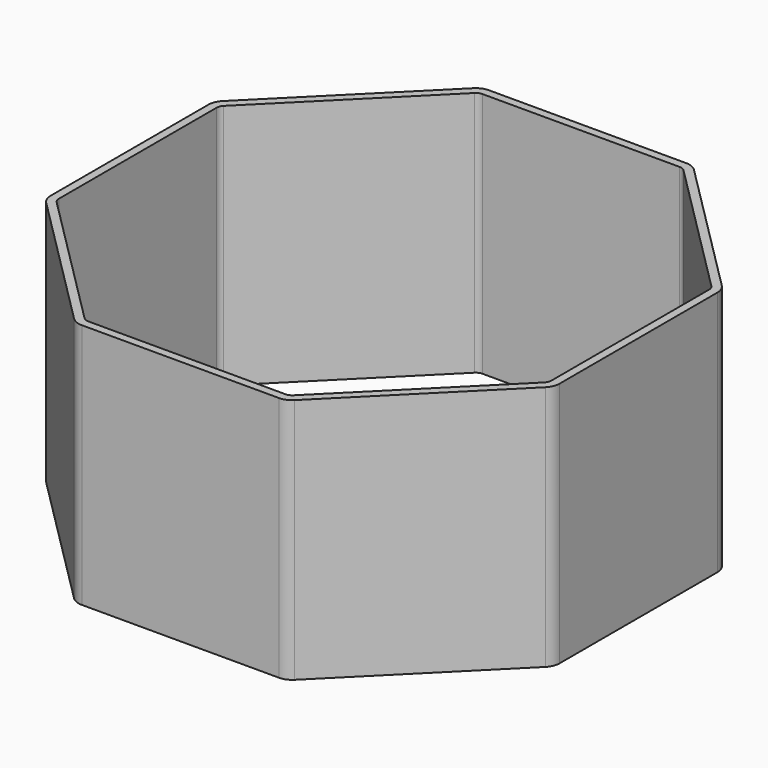
from build123d import *

# Parameters (mm, degrees)
F1_DEPTH = 90
F2_R     = 3
F3_R     = 6


with BuildPart() as f1:
    # F0 (on Top) → F1 (new body)
    with BuildSketch(Plane.XY):
        Polygon((93, 38.521861), (38.521861, 93), (-38.521861, 93), (-93, 38.521861), (-93, -38.521861), (-38.521861, -93), (38.521861, -93), (93, -38.521861), align=None)
        Polygon((-90, 37.279221), (-37.279221, 90), (37.279221, 90), (90, 37.279221), (90, -37.279221), (37.279221, -90), (-37.279221, -90), (-90, -37.279221), align=None, mode=Mode.SUBTRACT)
    extrude(amount=F1_DEPTH)

    # F2
    f2_edges = [f1.edges().sort_by_distance(p)[0] for p in [
        (-37.279221, 90, 45),
        (37.279221, 90, 45),
        (90, 37.279221, 45),
        (90, -37.279221, 45),
        (37.279221, -90, 45),
        (-37.279221, -90, 45),
        (-90, -37.279221, 45),
        (-90, 37.279221, 45),
    ]]
    fillet(f2_edges, radius=F2_R)

    # F3
    f3_edges = [f1.edges().sort_by_distance(p)[0] for p in [
        (-93, -38.521861, 45),
        (-38.521861, -93, 45),
        (38.521861, -93, 45),
        (93, -38.521861, 45),
        (93, 38.521861, 45),
        (38.521861, 93, 45),
        (-38.521861, 93, 45),
        (-93, 38.521861, 45),
    ]]
    fillet(f3_edges, radius=F3_R)


solid = f1.part
